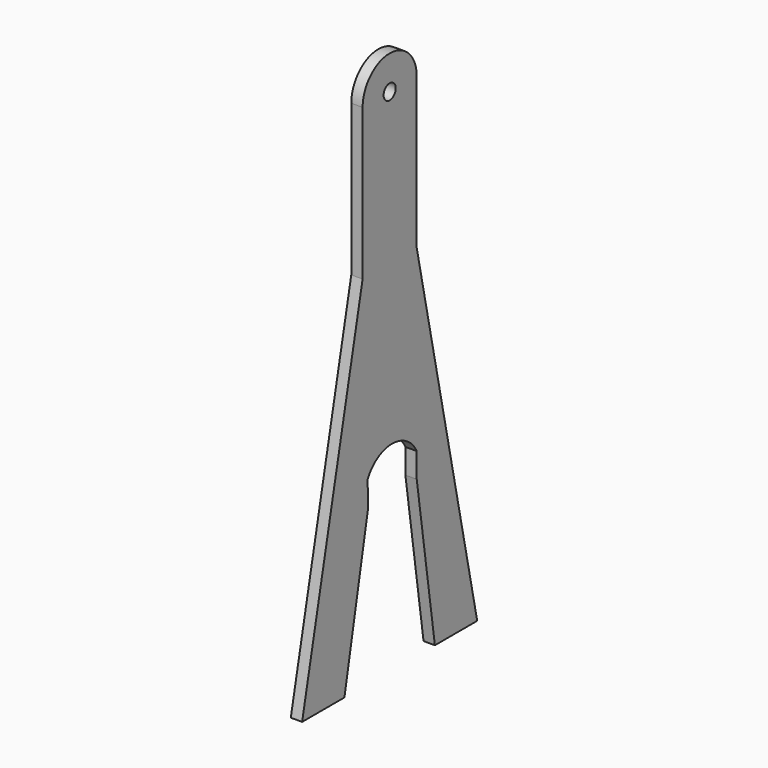
from build123d import *

# Parameters (mm, degrees)
F1_R     = 2
F2_DEPTH = 3


with BuildPart() as f2:
    # F1 (on face) → F2 (new body)
    with BuildSketch(Plane.YZ):
        with BuildLine():
            Line((7.315274, 53.376805), (7.315274, 93.376805))
            ThreePointArc((7.315274, 93.376805), (-1.634726, 102.326805), (-10.584726, 93.376805))
            Line((-10.584726, 93.376805), (-10.584726, 53.376805))
            Line((-10.584726, 53.376805), (-30.584726, -41.623195))
            Line((-30.584726, -41.623195), (-16.584726, -41.623195))
            Line((-16.584726, -41.623195), (-8.723256, -0.514457))
            Line((-8.723256, -0.514457), (-8.95, 6.05))
            ThreePointArc((-8.95, 6.05), (-0.817363, 11.086847), (7.315274, 6.05))
            Line((7.315274, 6.05), (7.315274, -0.514457))
            Line((7.315274, -0.514457), (13.315274, -41.623195))
            Line((13.315274, -41.623195), (27.315274, -41.623195))
            Line((27.315274, -41.623195), (7.315274, 53.376805))
        make_face()
        with Locations((-1.634726, 93.376805)):
            Circle(F1_R, mode=Mode.SUBTRACT)
    extrude(amount=F2_DEPTH)


solid = f2.part
